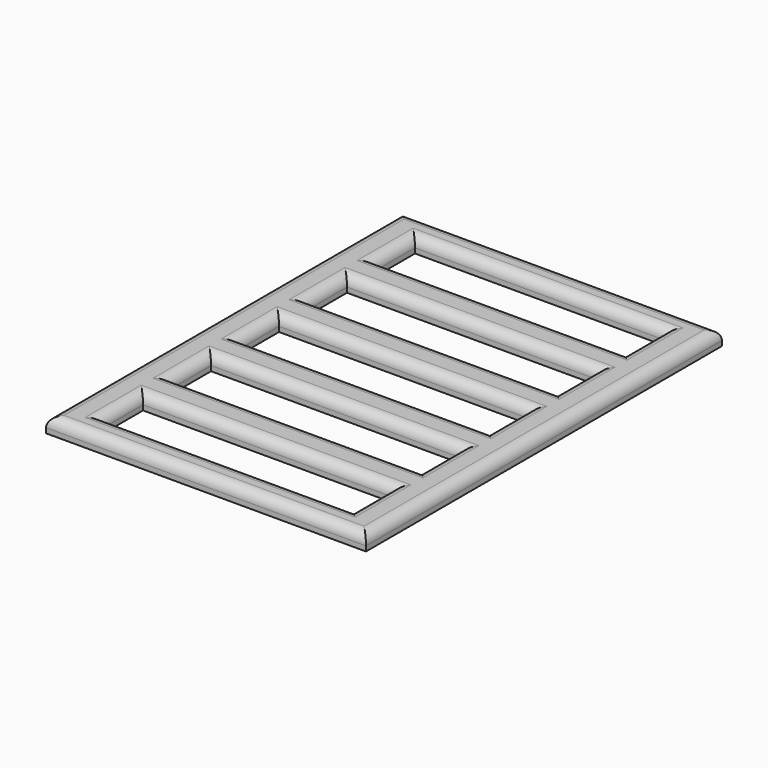
from build123d import *

# Parameters (mm, degrees)
F0_W     = 64
F0_H     = 89
F0_W_2   = 63.8
F0_H_2   = 88.8
F0_W_3   = 50
F0_H_3   = 10
F1_DEPTH = 3
F2_R     = 2


with BuildPart() as f1:
    # F0 (on Top) → F1 (new body)
    with BuildSketch(Plane.XY):
        with Locations((-32, 44.5)):
            Rectangle(F0_W, F0_H)
        with Locations((-32, 44.5)):
            Rectangle(F0_W_2, F0_H_2, mode=Mode.SUBTRACT)
        with Locations((-32, 44.5)):
            Rectangle(F0_W_2, F0_H_2)
        with Locations((-32, 10.5)):
            Rectangle(F0_W_3, F0_H_3, mode=Mode.SUBTRACT)
        with Locations((-32, 27.5)):
            Rectangle(F0_W_3, F0_H_3, mode=Mode.SUBTRACT)
        with Locations((-32, 44.5)):
            Rectangle(F0_W_3, F0_H_3, mode=Mode.SUBTRACT)
        with Locations((-32, 61.5)):
            Rectangle(F0_W_3, F0_H_3, mode=Mode.SUBTRACT)
        with Locations((-32, 78.5)):
            Rectangle(F0_W_3, F0_H_3, mode=Mode.SUBTRACT)
    extrude(amount=F1_DEPTH)

    # F2
    f2_edges = [f1.edges().sort_by_distance(p)[0] for p in [
        (-57, 10.5, 3),
        (-32, 15.5, 3),
        (-7, 10.5, 3),
        (-32, 5.5, 3),
        (-57, 27.5, 3),
        (-32, 32.5, 3),
        (-7, 27.5, 3),
        (-32, 22.5, 3),
        (-32, 49.5, 3),
        (-7, 44.5, 3),
        (-32, 39.5, 3),
        (-57, 44.5, 3),
        (-7, 61.5, 3),
        (-32, 56.5, 3),
        (-57, 61.5, 3),
        (-32, 66.5, 3),
        (-7, 78.5, 3),
        (-32, 73.5, 3),
        (-57, 78.5, 3),
        (-32, 83.5, 3),
        (-32, 0, 3),
        (0, 44.5, 3),
        (-32, 89, 3),
        (-64, 44.5, 3),
    ]]
    fillet(f2_edges, radius=F2_R)


solid = f1.part
